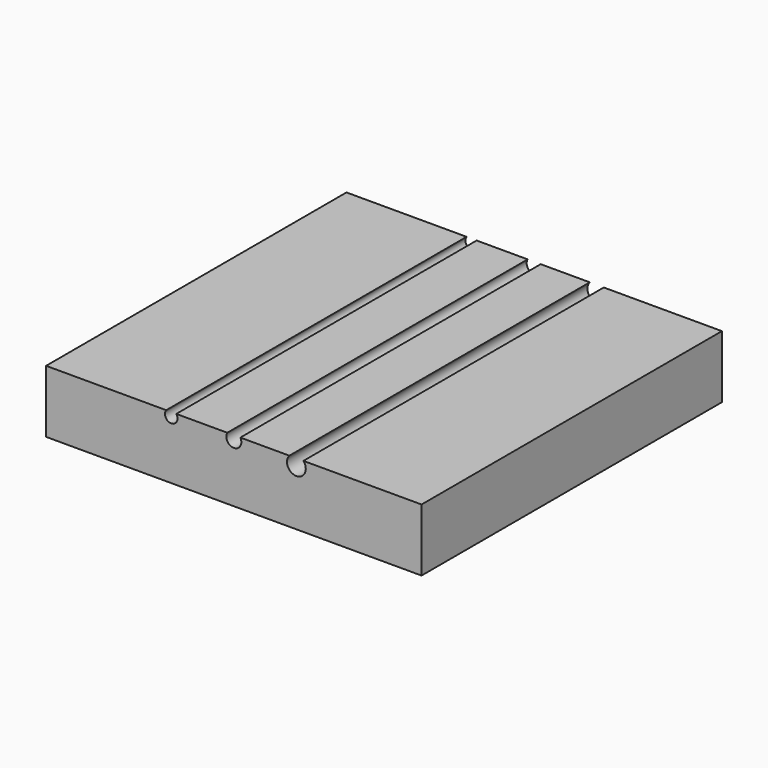
from build123d import *

# Parameters (mm, degrees)
F1_DEPTH = 30


with BuildPart() as f1:
    # F0 (on Front) → F1 (new body)
    with BuildSketch(Plane.XZ):
        with BuildLine():
            Line((-20.4, 5), (-30, 5))
            Line((-30, 5), (-30, 0))
            Line((-30, 0), (0, 0))
            Line((0, 0), (0, 5))
            Line((0, 5), (-9.440983, 5))
            ThreePointArc((-9.440983, 5), (-9.299371, 4.767617), (-9.25, 4.5))
            ThreePointArc((-9.25, 4.5), (-10.267617, 3.799371), (-10.559017, 5))
            Line((-10.559017, 5), (-14.480385, 5))
            ThreePointArc((-14.480385, 5), (-14.420445, 4.855291), (-14.4, 4.7))
            ThreePointArc((-14.4, 4.7), (-15.155291, 4.120445), (-15.519615, 5))
            Line((-15.519615, 5), (-19.6, 5))
            ThreePointArc((-19.6, 5), (-19.525658, 4.858114), (-19.5, 4.7))
            ThreePointArc((-19.5, 4.7), (-20.158114, 4.225658), (-20.4, 5))
        make_face()
    extrude(amount=F1_DEPTH)


solid = f1.part
